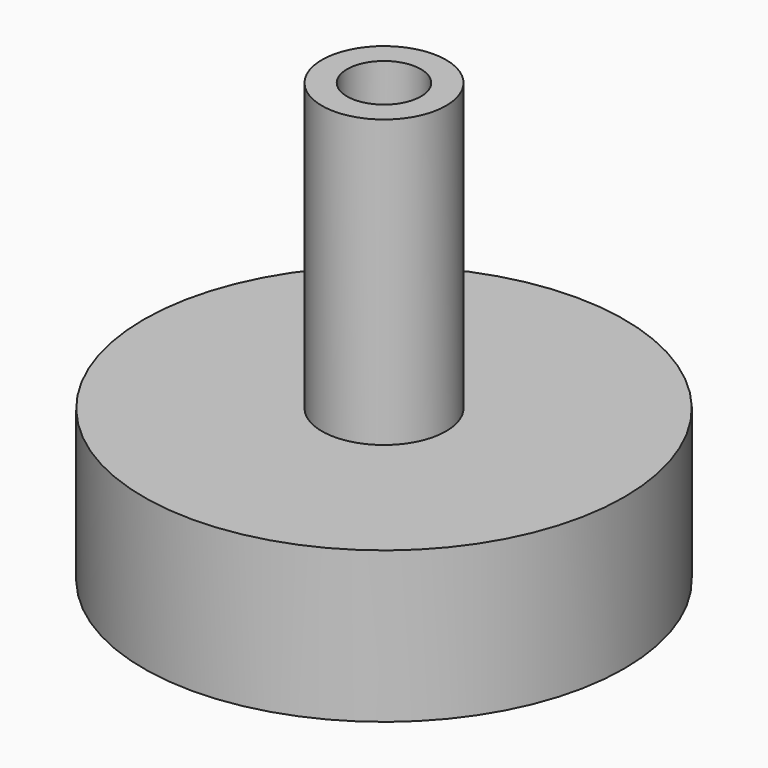
from build123d import *

# Parameters (mm, degrees)
F2_R     = 4.7625
F3_DEPTH = 9.525
F4_R     = 1.5875
F5_DEPTH = 21.844


with BuildPart() as f1:
    # F0 (on Front) → F1 (revolve)
    with BuildSketch(Plane.XZ):
        Polygon((0, 62.927276), (0, 0), (30.991441, 6.508361), (30.991441, 25.977967), (8.01147, 25.977967), (8.01147, 62.927276), align=None)
    revolve(axis=Axis((0, 0, 31.463638), (0, 0, -1)))

    # F2 (on face) → F3 (cut)
    with BuildSketch(Plane.XY.offset(62.927276)):
        Circle(F2_R)
    extrude(amount=-F3_DEPTH, mode=Mode.SUBTRACT)

    # F4 (on Top) → F5 (cut)
    with BuildSketch(Plane.XY):
        Circle(F4_R)
    extrude(amount=F5_DEPTH, mode=Mode.SUBTRACT)


solid = f1.part
